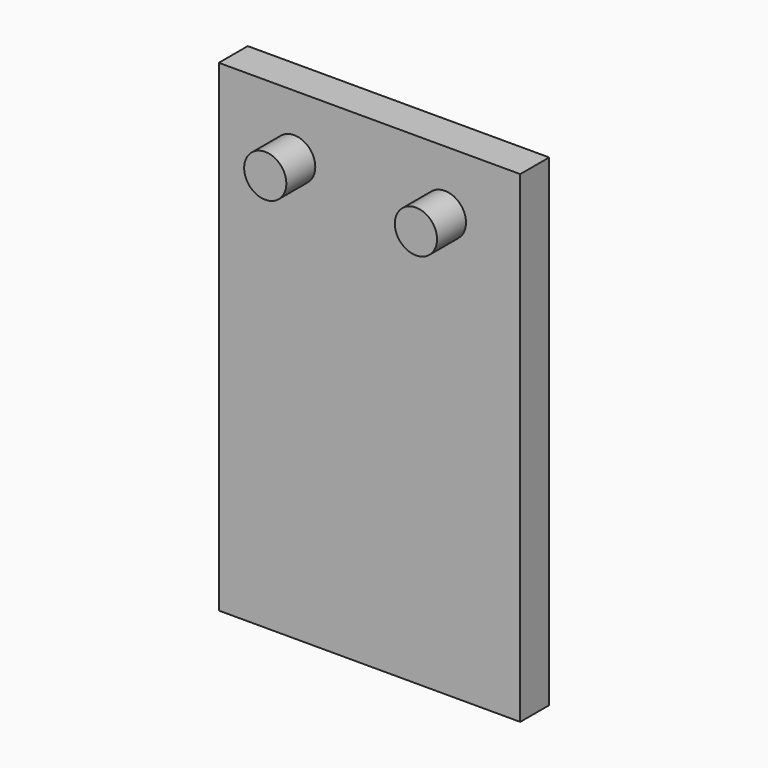
from build123d import *

# Parameters (mm, degrees)
F0_W     = 25
F0_H     = 40
F0_R     = 1.75
F1_DEPTH = 3
F2_DEPTH = 3


with BuildPart() as f1:
    # F0 (on Front) → F1 (new body)
    with BuildSketch(Plane.XZ):
        with Locations((0, -10)):
            Rectangle(F0_W, F0_H)
        with Locations((-6.25, 5)):
            Circle(F0_R, mode=Mode.SUBTRACT)
        with Locations((6.25, 5)):
            Circle(F0_R, mode=Mode.SUBTRACT)
        with Locations((-6.25, 5)):
            Circle(F0_R)
        with Locations((6.25, 5)):
            Circle(F0_R)
    extrude(amount=-F1_DEPTH)

    # F0 (on Front) → F2 (join)
    with BuildSketch(Plane.XZ):
        with Locations((-6.25, 5)):
            Circle(F0_R)
        with Locations((6.25, 5)):
            Circle(F0_R)
    extrude(amount=F2_DEPTH)


solid = f1.part
